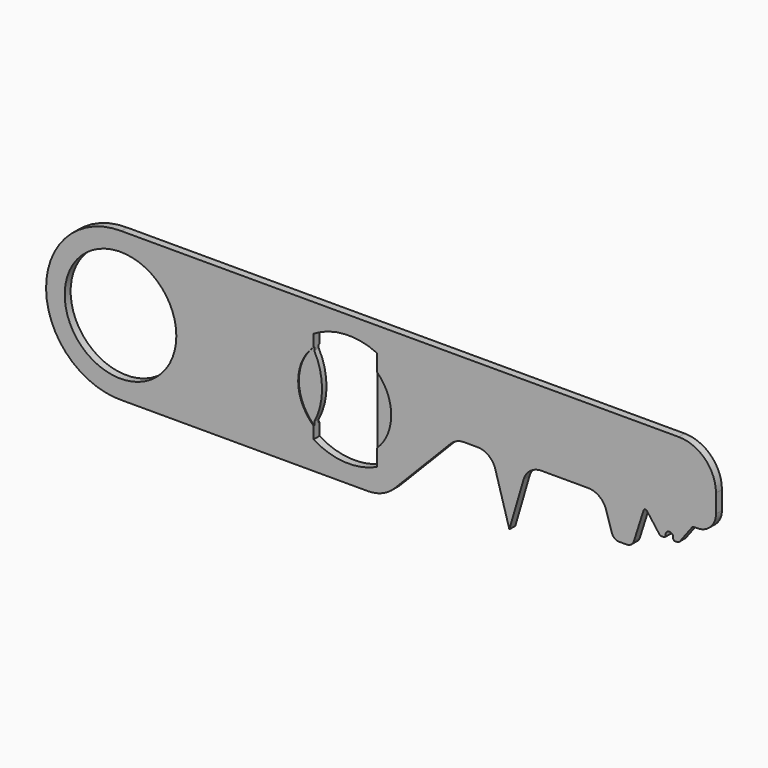
from build123d import *

# Parameters (mm, degrees)
F0_R     = 15
F1_DEPTH = 2
F3_DEPTH = 2.001
F5_DEPTH = 0.25
F6_R     = 12.5
F7_DEPTH = 0.25


with BuildPart() as f1:
    # F0 (on Front) → F1 (new body)
    with BuildSketch(Plane.XZ):
        with BuildLine():
            Line((74.7654586344, 19.9989924685), (-75.0312126981, 19.9989924685))
            ThreePointArc((-75.0312126981, 19.9989924685), (-95.2302513379, -0.261571778), (-74.5082089138, -19.9869002501))
            Line((-74.5082089138, -19.9869002501), (-8.7254105168, -19.9869002501))
            ThreePointArc((-8.7254105168, -19.9869002501), (-4.839616653, -19.2010527368), (-1.5645510783, -16.9670214598))
            Line((-1.5645510783, -16.9670214598), (13.5023982574, -1.5099393951))
            ThreePointArc((13.5023982574, -1.5099393951), (15.1399310448, -0.3929237566), (17.0828279766, 0))
            Line((17.0828279766, 0), (20.6616625341, 0))
            ThreePointArc((20.6616625341, 0), (23.6645705828, -1.0021826891), (25.4636936461, -3.6069826995))
            Line((25.4636936461, -3.6069826995), (29.2526781559, -16.6684295982))
            Line((29.2526781559, -16.6684295982), (33.0697437835, -3.5983243492))
            ThreePointArc((33.0697437835, -3.5983243492), (34.8699530038, -0.9994763934), (37.8692547347, 0))
            Line((37.8692547347, 0), (50.4326597146, 0))
            ThreePointArc((50.4326597146, 0), (53.3846342659, -0.9644273952), (55.1978227663, -3.4856615005))
            Line((55.1978227663, -3.4856615005), (56.8249496751, -8.6057353998))
            ThreePointArc((56.8249496751, -8.6057353998), (57.5502250753, -9.6142290419), (58.7310148958, -10))
            Line((58.7310148958, -10), (60.8050612923, -10))
            ThreePointArc((60.8050612923, -10), (61.9858511128, -9.6142290419), (62.711126513, -8.6057353998))
            Line((62.711126513, -8.6057353998), (65.3225235362, -0.3884625696))
            ThreePointArc((65.3225235362, -0.3884625696), (65.7154835042, -0.0469275173), (66.1990398413, -0.2398964195))
            Line((66.1990398413, -0.2398964195), (69.4730335519, -4.6052213669))
            ThreePointArc((69.4730335519, -4.6052213669), (69.7287348247, -4.8933610183), (70.0987919677, -5.0004372085))
            Line((70.0987919677, -5.0004372085), (70.7654586344, -5.0004372085))
            ThreePointArc((70.7654586344, -5.0004372085), (71.119012025, -4.8539905991), (71.2654586344, -4.5004372085))
            Line((71.2654586344, -4.5004372085), (71.2654586344, -4.0004372085))
            ThreePointArc((71.2654586344, -4.0004372085), (72.2654586344, -3.2196608021), (73.2654586344, -4.0004372085))
            Line((73.2654586344, -4.0004372085), (73.2654586344, -4.5004372085))
            ThreePointArc((73.2654586344, -4.5004372085), (73.4119052438, -4.8539905991), (73.7654586344, -5.0004372085))
            Line((73.7654586344, -5.0004372085), (74.2654586344, -5.0004372085))
            ThreePointArc((74.2654586344, -5.0004372085), (74.7126722299, -4.8948643995), (75.0654586344, -4.6004372085))
            Line((75.0654586344, -4.6004372085), (78.3864482289, -0.1724510824))
            ThreePointArc((78.3864482289, -0.1724510824), (78.5628414312, -0.0252374869), (78.7864482289, 0.0275489176))
            Line((78.7864482289, 0.0275489176), (79.7654586344, 0.0275489176))
            ThreePointArc((79.7654586344, 0.0275489176), (83.3009925403, 1.4920150116), (84.7654586344, 5.0275489176))
            Line((84.7654586344, 5.0275489176), (84.7654586344, 9.9989924685))
            ThreePointArc((84.7654586344, 9.9989924685), (81.8365264462, 17.0700602804), (74.7654586344, 19.9989924685))
        make_face()
        with Locations((-75.231961906, 0)):
            Circle(F0_R, mode=Mode.SUBTRACT)
    extrude(amount=F1_DEPTH)

    # F2 (on Front) → F3 (cut, through all)
    with BuildSketch(Plane.XZ):
        with BuildLine():
            Line((-6.3686813228, -13.5), (-6.3686813228, 0))
            Line((-6.3686813228, 0), (-6.3686813228, 13.5))
            ThreePointArc((-6.3686813228, 13.5), (-14.9944197626, 15.137553477), (-23.3686813228, 12.5))
            Line((-23.3686813228, 12.5), (-23.3686813228, 8.413849912))
            ThreePointArc((-23.3686813228, 8.413849912), (-21.2785048492, 0), (-23.3686813228, -8.413849912))
            Line((-23.3686813228, -8.413849912), (-23.3686813228, -12.5))
            ThreePointArc((-23.3686813228, -12.5), (-14.9944197626, -15.137553477), (-6.3686813228, -13.5))
        make_face()
    extrude(amount=F3_DEPTH, mode=Mode.SUBTRACT)

    # F4 (on face) → F5 (cut)
    with BuildSketch(Plane.XZ.offset(2)):
        with BuildLine():
            Line((-23.3686813228, 8.413849912), (-23.3686813228, 9.2801801341))
            ThreePointArc((-23.3686813228, 9.2801801341), (-27.4944197626, 0), (-23.3686813228, -9.2801801341))
            Line((-23.3686813228, -9.2801801341), (-23.3686813228, -8.413849912))
            ThreePointArc((-23.3686813228, -8.413849912), (-21.2785048492, 0), (-23.3686813228, 8.413849912))
        make_face()
        with BuildLine():
            ThreePointArc((-6.3686813228, -9.046913085), (-3.5037337409, -4.9207859892), (-2.4944197626, 0))
            ThreePointArc((-2.4944197626, 0), (-3.5037337409, 4.9207859892), (-6.3686813228, 9.046913085))
            Line((-6.3686813228, 9.046913085), (-6.3686813228, -9.046913085))
        make_face()
    extrude(amount=-F5_DEPTH, mode=Mode.SUBTRACT)

    # F6 (on Front) → F7 (cut)
    with BuildSketch(Plane.XZ):
        with Locations((-14.9645612109, 0)):
            Circle(F6_R)
    extrude(amount=F7_DEPTH, mode=Mode.SUBTRACT)


solid = f1.part
